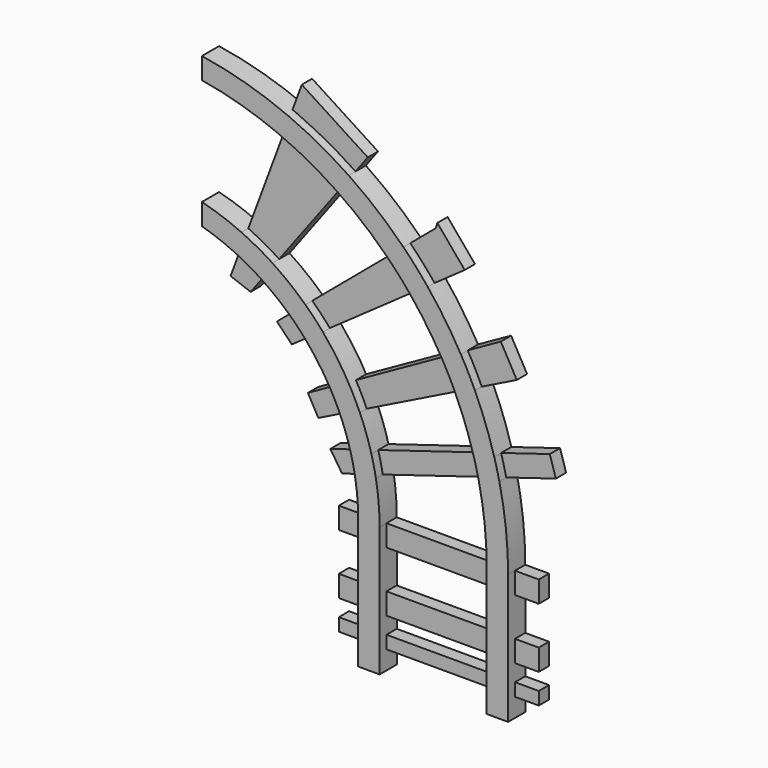
from build123d import *

# Parameters (mm, degrees)
F0_W     = 12.7
F0_H     = 12.7
F0_H_2   = 22.86
F0_H_3   = 9.9460211349
F0_H_4   = 7.62
F0_H_5   = 11.0575035214
F1_DEPTH = 12.7
F2_DEPTH = 7.62
F0_W_2   = 15.5642591417
F0_W_3   = 63.5
F0_W_4   = 14.1045039952


with BuildPart() as f1:
    # F0 (on Front) → F1 (new body)
    with BuildSketch(Plane.XZ):
        with BuildLine():
            ThreePointArc((-143.0310159922, 122.8357468128), (-133.3256165451, 119.6412288851), (-123.9065840531, 115.6812351812))
            Line((-123.9065840531, 115.6812351812), (-119.5873843043, 127.2969472372))
            ThreePointArc((-119.5873843043, 127.2969472372), (-131.1258470676, 131.9380810535), (-143.0310159922, 135.5357468128))
            Line((-143.0310159922, 135.5357468128), (-143.0310159922, 122.8357468128))
        make_face()
        with BuildLine():
            ThreePointArc((-123.9065840531, 115.6812351812), (-116.1644590875, 111.7287534163), (-108.709071574, 107.2588755533))
            Line((-108.709071574, 107.2588755533), (-101.2451465808, 117.2341363508))
            ThreePointArc((-101.2451465808, 117.2341363508), (-110.2278276695, 122.609021411), (-119.5873843043, 127.2969472372))
            Line((-119.5873843043, 127.2969472372), (-123.9065840531, 115.6812351812))
        make_face()
        with BuildLine():
            ThreePointArc((-108.709071574, 107.2588755533), (-99.7138737807, 100.8735557372), (-91.3031171969, 93.7359744813))
            Line((-91.3031171969, 93.7359744813), (-81.6622178972, 101.8530518603))
            ThreePointArc((-81.6622178972, 101.8530518603), (-91.110659617, 109.9803245291), (-101.2451465808, 117.2341363508))
            Line((-101.2451465808, 117.2341363508), (-108.709071574, 107.2588755533))
        make_face()
        with BuildLine():
            ThreePointArc((-91.3031171969, 93.7359744813), (-86.3016183808, 88.8445333036), (-81.5754055165, 83.6866171388))
            Line((-81.5754055165, 83.6866171388), (-71.2600619673, 90.9513526832))
            ThreePointArc((-71.2600619673, 90.9513526832), (-76.3142050466, 96.5424042317), (-81.6622178972, 101.8530518603))
            Line((-81.6622178972, 101.8530518603), (-91.3031171969, 93.7359744813))
        make_face()
        with BuildLine():
            ThreePointArc((-81.5754055165, 83.6866171388), (-73.6460208929, 73.5531822058), (-66.7763011445, 62.6734490001))
            Line((-66.7763011445, 62.6734490001), (-55.758868548, 68.8359713406))
            ThreePointArc((-55.758868548, 68.8359713406), (-62.974360231, 80.2687297709), (-71.2600619673, 90.9513526832))
            Line((-71.2600619673, 90.9513526832), (-81.5754055165, 83.6866171388))
        make_face()
        with BuildLine():
            ThreePointArc((-66.7763011445, 62.6734490001), (-63.57349951, 56.6101729639), (-60.7006796493, 50.3837646373))
            Line((-60.7006796493, 50.3837646373), (-49.3429992942, 55.992577178))
            ThreePointArc((-49.3429992942, 55.992577178), (-52.3860133351, 62.4966597179), (-55.758868548, 68.8359713406))
            Line((-55.758868548, 68.8359713406), (-66.7763011445, 62.6734490001))
        make_face()
        with BuildLine():
            ThreePointArc((-60.7006796493, 50.3837646373), (-57.3684645141, 41.7747358426), (-54.6666987904, 32.9475337678))
            Line((-54.6666987904, 32.9475337678), (-42.5300391434, 36.6414021189))
            ThreePointArc((-42.5300391434, 36.6414021189), (-45.5811933941, 46.4420890637), (-49.3429992942, 55.992577178))
            Line((-49.3429992942, 55.992577178), (-60.7006796493, 50.3837646373))
        make_face()
        with BuildLine():
            ThreePointArc((-54.6666987904, 32.9475337678), (-53.2309349708, 27.0015367492), (-52.0814640145, 20.9936240658))
            Line((-52.0814640145, 20.9936240658), (-39.8462091881, 24.717500477))
            ThreePointArc((-39.8462091881, 24.717500477), (-41.0577990155, 30.7087848628), (-42.5300391434, 36.6414021189))
            Line((-42.5300391434, 36.6414021189), (-54.6666987904, 32.9475337678))
        make_face()
        with BuildLine():
            ThreePointArc((-52.0814640145, 20.9936240658), (-50.7795044537, 10.5326775973), (-50.344530493, 0))
            Line((-50.344530493, 0), (-37.644530493, 0))
            ThreePointArc((-37.644530493, 0), (-38.196037631, 12.4076812792), (-39.8462091881, 24.717500477))
            Line((-39.8462091881, 24.717500477), (-52.0814640145, 20.9936240658))
        make_face()
        with Locations((-43.994530493, -6.35)):
            Rectangle(F0_W, F0_H)
        with Locations((-43.994530493, -24.13)):
            Rectangle(F0_W, F0_H_2)
        with Locations((-43.994530493, -41.91)):
            Rectangle(F0_W, F0_H)
        with Locations((-43.994530493, -53.2330105674)):
            Rectangle(F0_W, F0_H_3)
        with Locations((-43.994530493, -62.0160211349)):
            Rectangle(F0_W, F0_H_4)
        with Locations((-43.994530493, -71.3547728956)):
            Rectangle(F0_W, F0_H_5)
    extrude(amount=F1_DEPTH)


with BuildPart() as f1b:
    # F0 (on Front) → F1, piece 2 (new body)
    with BuildSketch(Plane.XZ):
        with Locations((32.205469507, -71.3547728956)):
            Rectangle(F0_W, F0_H_5)
        with Locations((32.205469507, -62.0160211349)):
            Rectangle(F0_W, F0_H_4)
        with Locations((32.205469507, -53.2330105674)):
            Rectangle(F0_W, F0_H_3)
        with Locations((32.205469507, -41.91)):
            Rectangle(F0_W, F0_H)
        with Locations((32.205469507, -24.13)):
            Rectangle(F0_W, F0_H_2)
        with Locations((32.205469507, -6.35)):
            Rectangle(F0_W, F0_H)
        with BuildLine():
            ThreePointArc((21.1570390593, 43.2842210217), (24.6774221057, 21.7692388367), (25.855469507, 0))
            Line((25.855469507, 0), (38.555469507, 0))
            ThreePointArc((38.555469507, 0), (37.2471842311, 23.6401960365), (33.3383069449, 46.9916661694))
            Line((33.3383069449, 46.9916661694), (21.1570390593, 43.2842210217))
        make_face()
        with BuildLine():
            ThreePointArc((18.1792703404, 55.1186605606), (19.7576646801, 49.2239631943), (21.1570390593, 43.2842210217))
            Line((21.1570390593, 43.2842210217), (33.3383069449, 46.9916661694))
            ThreePointArc((33.3383069449, 46.9916661694), (31.9153845876, 52.9248014397), (30.3240845662, 58.8150108087))
            Line((30.3240845662, 58.8150108087), (18.1792703405, 55.1186605606))
        make_face()
        with BuildLine():
            ThreePointArc((7.5043782173, 84.0657641251), (13.3960424024, 69.7965926764), (18.1792703404, 55.1186605606))
            Line((18.1792703405, 55.1186605606), (30.3240845662, 58.8150108087))
            ThreePointArc((30.3240845662, 58.8150108087), (25.1961201534, 74.469490908), (18.8805194943, 89.683693303))
            Line((18.8805194943, 89.683693303), (7.5043782173, 84.0657641251))
        make_face()
        with BuildLine():
            ThreePointArc((-0.5224747393, 99.7320542416), (3.6619155532, 91.986504995), (7.5043782173, 84.0657641251))
            Line((7.5043782173, 84.0657641251), (18.8805194943, 89.683693303))
            ThreePointArc((18.8805194943, 89.683693303), (14.883382914, 97.8906681666), (10.5402587667, 105.9199153228))
            Line((10.5402587667, 105.9199153228), (-0.5224747393, 99.7320542416))
        make_face()
        with BuildLine():
            ThreePointArc((-19.4798994006, 127.4183094746), (-9.4245323344, 113.9700308043), (-0.5224747393, 99.7320542416))
            Line((-0.5224747393, 99.7320542416), (10.5402587667, 105.9199153228))
            ThreePointArc((10.5402587667, 105.9199153228), (1.3036893829, 120.7221820302), (-9.1067513345, 134.7237547178))
            Line((-9.1067513345, 134.7237547178), (-19.4798994006, 127.4183094746))
        make_face()
        with BuildLine():
            ThreePointArc((-33.2227822926, 142.6362438399), (-26.1578585854, 135.2020049741), (-19.4798994006, 127.4183094746))
            Line((-19.4798994006, 127.4183094746), (-9.1067513345, 134.7237547178))
            ThreePointArc((-9.1067513345, 134.7237547178), (-16.1085261006, 142.9479841465), (-23.5159034317, 150.808872178))
            Line((-23.5159034317, 150.808872178), (-33.2227822926, 142.6362438399))
        make_face()
        with BuildLine():
            ThreePointArc((-63.5741743567, 167.5800030058), (-47.7898104611, 155.8487462311), (-33.2227822926, 142.6362438399))
            Line((-33.2227822926, 142.6362438399), (-23.5159034317, 150.808872178))
            ThreePointArc((-23.5159034317, 150.808872178), (-39.0976547735, 165.0532930365), (-56.0057200395, 177.694963394))
            Line((-56.0057200395, 177.694963394), (-63.5741743567, 167.5800030058))
        make_face()
        with BuildLine():
            ThreePointArc((-97.7624570425, 185.9911696533), (-80.2242879036, 177.6101157089), (-63.5741743567, 167.5800030058))
            Line((-63.5741743567, 167.5800030058), (-56.0057200395, 177.694963394))
            ThreePointArc((-56.0057200395, 177.694963394), (-74.1904864713, 188.672803372), (-93.3729689779, 197.7959095121))
            Line((-93.3729689779, 197.7959095121), (-97.7624570425, 185.9911696533))
        make_face()
        with BuildLine():
            ThreePointArc((-143.0310159922, 199.0357468128), (-120.0146317378, 193.8394753609), (-97.7624570425, 185.9911696533))
            Line((-97.7624570425, 185.9911696533), (-93.3729689779, 197.7959095121))
            ThreePointArc((-93.3729689779, 197.7959095121), (-117.7809632533, 206.265665566), (-143.0310159922, 211.7357468128))
            Line((-143.0310159922, 211.7357468128), (-143.0310159922, 199.0357468128))
        make_face()
    extrude(amount=F1_DEPTH)


with BuildPart() as f2:
    # F0 (on Front) → F2 (new body)
    with BuildSketch(Plane.XZ):
        with BuildLine():
            Line((-118.2105913758, 94.560444355), (-108.709071574, 107.2588755533))
            ThreePointArc((-108.709071574, 107.2588755533), (-116.1644590875, 111.7287534163), (-123.9065840531, 115.6812351812))
            Line((-123.9065840531, 115.6812351812), (-130.114288528, 98.9867288137))
            Line((-130.114288528, 98.9867288137), (-118.2105913758, 94.560444355))
        make_face()
    extrude(amount=F2_DEPTH)


with BuildPart() as f2b:
    # F0 (on Front) → F2, piece 2 (new body)
    with BuildSketch(Plane.XZ):
        with BuildLine():
            ThreePointArc((-119.5873843043, 127.2969472372), (-110.2278276695, 122.609021411), (-101.2451465808, 117.2341363508))
            Line((-101.2451465808, 117.2341363508), (-63.5741743567, 167.5800030058))
            ThreePointArc((-63.5741743567, 167.5800030058), (-80.2242879036, 177.6101157089), (-97.7624570425, 185.9911696533))
            Line((-97.7624570425, 185.9911696533), (-119.5873843043, 127.2969472372))
        make_face()
    extrude(amount=F2_DEPTH)


with BuildPart() as f2c:
    # F0 (on Front) → F2, piece 3 (new body)
    with BuildSketch(Plane.XZ):
        with BuildLine():
            ThreePointArc((-93.3729689779, 197.7959095121), (-74.1904864713, 188.672803372), (-56.0057200395, 177.694963394))
            Line((-56.0057200395, 177.694963394), (-48.7457960844, 187.3975843191))
            Line((-48.7457960844, 187.3975843191), (-87.8494675733, 212.6503745954))
            Line((-87.8494675733, 212.6503745954), (-93.3729689779, 197.7959095121))
        make_face()
    extrude(amount=F2_DEPTH)


with BuildPart() as f2d:
    # F0 (on Front) → F2, piece 4 (new body)
    with BuildSketch(Plane.XZ):
        with BuildLine():
            ThreePointArc((-23.5159034317, 150.808872178), (-16.1085261006, 142.9479841465), (-9.1067513345, 134.7237547178))
            Line((-9.1067513345, 134.7237547178), (8.7520629168, 147.3010927439))
            Line((8.7520629168, 147.3010927439), (-7.4852107739, 166.5865957944))
            Line((-7.4852107739, 166.5865957944), (-8.4826406091, 163.4660065174))
            Line((-8.4826406091, 163.4660065174), (-23.5159034317, 150.808872178))
        make_face()
    extrude(amount=F2_DEPTH)


with BuildPart() as f2e:
    # F0 (on Front) → F2, piece 5 (new body)
    with BuildSketch(Plane.XZ):
        with BuildLine():
            ThreePointArc((-81.6622178972, 101.8530518603), (-76.3142050466, 96.5424042317), (-71.2600619673, 90.9513526832))
            Line((-71.2600619673, 90.9513526832), (-19.4798994006, 127.4183094746))
            ThreePointArc((-19.4798994006, 127.4183094746), (-26.1578585854, 135.2020049741), (-33.2227822926, 142.6362438399))
            Line((-33.2227822926, 142.6362438399), (-81.6622178972, 101.8530518603))
        make_face()
    extrude(amount=F2_DEPTH)


with BuildPart() as f2f:
    # F0 (on Front) → F2, piece 6 (new body)
    with BuildSketch(Plane.XZ):
        with BuildLine():
            Line((-93.773040894, 75.0962493179), (-81.5754055165, 83.6866171388))
            ThreePointArc((-81.5754055165, 83.6866171388), (-86.3016183808, 88.8445333036), (-91.3031171969, 93.7359744813))
            Line((-91.3031171969, 93.7359744813), (-102.6202812791, 84.2075794935))
            Line((-102.6202812791, 84.2075794935), (-93.773040894, 75.0962493179))
        make_face()
    extrude(amount=F2_DEPTH)


with BuildPart() as f2g:
    # F0 (on Front) → F2, piece 7 (new body)
    with BuildSketch(Plane.XZ):
        with BuildLine():
            Line((-78.0471563339, 41.8174788356), (-60.7006796493, 50.3837646373))
            ThreePointArc((-60.7006796493, 50.3837646373), (-63.57349951, 56.6101729639), (-66.7763011445, 62.6734490001))
            Line((-66.7763011445, 62.6734490001), (-84.2468735715, 52.9014089226))
            Line((-84.2468735715, 52.9014089226), (-78.0471563339, 41.8174788356))
        make_face()
    extrude(amount=F2_DEPTH)


with BuildPart() as f2h:
    # F0 (on Front) → F2, piece 8 (new body)
    with BuildSketch(Plane.XZ):
        with BuildLine():
            ThreePointArc((-55.758868548, 68.8359713406), (-52.3860133351, 62.4966597179), (-49.3429992942, 55.992577178))
            Line((-49.3429992942, 55.992577178), (7.5043782173, 84.0657641251))
            ThreePointArc((7.5043782173, 84.0657641251), (3.6619155532, 91.986504995), (-0.5224747393, 99.7320542416))
            Line((-0.5224747393, 99.7320542416), (-55.758868548, 68.8359713406))
        make_face()
    extrude(amount=F2_DEPTH)


with BuildPart() as f2i:
    # F0 (on Front) → F2, piece 9 (new body)
    with BuildSketch(Plane.XZ):
        with BuildLine():
            ThreePointArc((10.5402587667, 105.9199153228), (14.883382914, 97.8906681666), (18.8805194943, 89.683693303))
            Line((18.8805194943, 89.683693303), (39.6505855024, 99.9406650662))
            Line((39.6505855024, 99.9406650662), (30.1659527079, 116.8974072477))
            Line((30.1659527079, 116.8974072477), (10.5402587667, 105.9199153228))
        make_face()
    extrude(amount=F2_DEPTH)


with BuildPart() as f2j:
    # F0 (on Front) → F2, piece 10 (new body)
    with BuildSketch(Plane.XZ):
        with BuildLine():
            ThreePointArc((30.3240845662, 58.8150108087), (31.9153845876, 52.9248014397), (33.3383069449, 46.9916661694))
            Line((33.3383069449, 46.9916661694), (62.7686902881, 55.9489876032))
            Line((62.7686902881, 55.9489876032), (59.2197167802, 67.6095773883))
            Line((59.2197167802, 67.6095773883), (30.3240845662, 58.8150108087))
        make_face()
    extrude(amount=F2_DEPTH)


with BuildPart() as f2k:
    # F0 (on Front) → F2, piece 11 (new body)
    with BuildSketch(Plane.XZ):
        with BuildLine():
            ThreePointArc((-42.5300391434, 36.6414021189), (-41.0577990155, 30.7087848628), (-39.8462091881, 24.717500477))
            Line((-39.8462091881, 24.717500477), (21.1570390593, 43.2842210217))
            ThreePointArc((21.1570390593, 43.2842210217), (19.7576646801, 49.2239631943), (18.1792703404, 55.1186605606))
            Line((18.1792703405, 55.1186605606), (-42.5300391434, 36.6414021189))
        make_face()
    extrude(amount=F2_DEPTH)


with BuildPart() as f2l:
    # F0 (on Front) → F2, piece 12 (new body)
    with BuildSketch(Plane.XZ):
        with BuildLine():
            Line((-63.9846688037, 17.3708091623), (-52.0814640145, 20.9936240658))
            ThreePointArc((-52.0814640145, 20.9936240658), (-53.2309349708, 27.0015367492), (-54.6666987904, 32.9475337678))
            Line((-54.6666987904, 32.9475337678), (-70.9463506937, 27.9927197844))
            Line((-70.9463506937, 27.9927197844), (-63.9846688037, 17.3708091623))
        make_face()
    extrude(amount=F2_DEPTH)


with BuildPart() as f2m:
    # F0 (on Front) → F2, piece 13 (new body)
    with BuildSketch(Plane.XZ):
        with Locations((-58.1266600639, -6.35)):
            Rectangle(F0_W_2, F0_H)
    extrude(amount=F2_DEPTH)


with BuildPart() as f2n:
    # F0 (on Front) → F2, piece 14 (new body)
    with BuildSketch(Plane.XZ):
        with Locations((-58.1266600639, -41.91)):
            Rectangle(F0_W_2, F0_H)
    extrude(amount=F2_DEPTH)


with BuildPart() as f2o:
    # F0 (on Front) → F2, piece 15 (new body)
    with BuildSketch(Plane.XZ):
        with Locations((-58.1266600639, -62.0160211349)):
            Rectangle(F0_W_2, F0_H_4)
    extrude(amount=F2_DEPTH)


with BuildPart() as f2p:
    # F0 (on Front) → F2, piece 16 (new body)
    with BuildSketch(Plane.XZ):
        with Locations((-5.894530493, -62.0160211349)):
            Rectangle(F0_W_3, F0_H_4)
    extrude(amount=F2_DEPTH)


with BuildPart() as f2q:
    # F0 (on Front) → F2, piece 17 (new body)
    with BuildSketch(Plane.XZ):
        with Locations((-5.894530493, -41.91)):
            Rectangle(F0_W_3, F0_H)
    extrude(amount=F2_DEPTH)


with BuildPart() as f2r:
    # F0 (on Front) → F2, piece 18 (new body)
    with BuildSketch(Plane.XZ):
        with Locations((-5.894530493, -6.35)):
            Rectangle(F0_W_3, F0_H)
    extrude(amount=F2_DEPTH)


with BuildPart() as f2s:
    # F0 (on Front) → F2, piece 19 (new body)
    with BuildSketch(Plane.XZ):
        with Locations((45.6077215046, -6.35)):
            Rectangle(F0_W_4, F0_H)
    extrude(amount=F2_DEPTH)


with BuildPart() as f2t:
    # F0 (on Front) → F2, piece 20 (new body)
    with BuildSketch(Plane.XZ):
        with Locations((45.6077215046, -41.91)):
            Rectangle(F0_W_4, F0_H)
    extrude(amount=F2_DEPTH)


with BuildPart() as f2u:
    # F0 (on Front) → F2, piece 21 (new body)
    with BuildSketch(Plane.XZ):
        with Locations((45.6077215046, -62.0160211349)):
            Rectangle(F0_W_4, F0_H_4)
    extrude(amount=F2_DEPTH)


solid = Compound([f1.part, f1b.part, f2.part, f2b.part, f2c.part, f2d.part, f2e.part, f2f.part, f2g.part, f2h.part, f2i.part, f2j.part, f2k.part, f2l.part, f2m.part, f2n.part, f2o.part, f2p.part, f2q.part, f2r.part, f2s.part, f2t.part, f2u.part])
